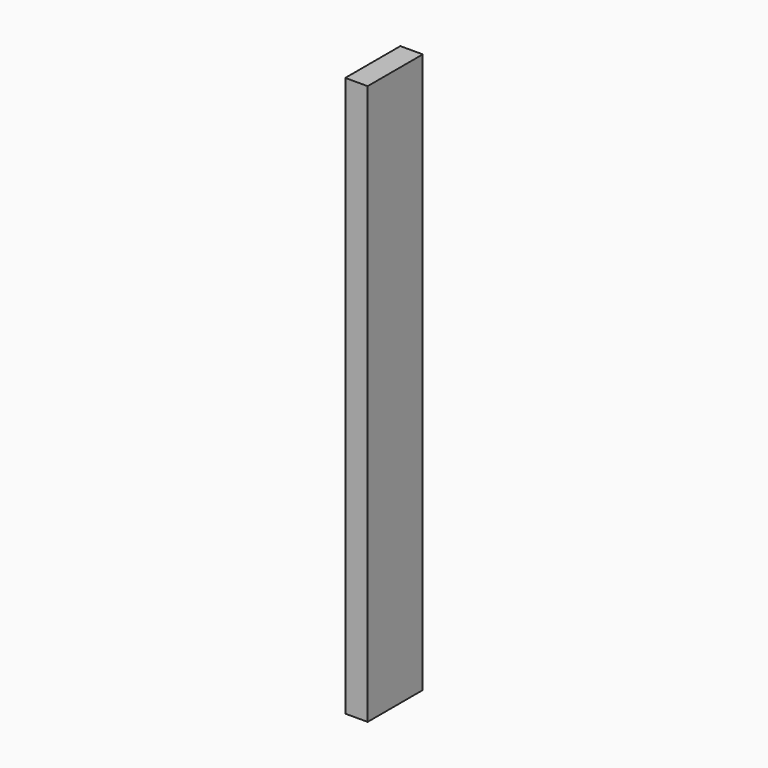
from build123d import *

# Parameters (mm, degrees)
BOX_W     = 26
BOX_H     = 80
BOX_DEPTH = 650


with BuildPart() as part:
    # Box → Box (new body)
    with BuildSketch(Plane.XY):
        with Locations((13, 40)):
            Rectangle(BOX_W, BOX_H)
    extrude(amount=BOX_DEPTH)


solid = part.part
